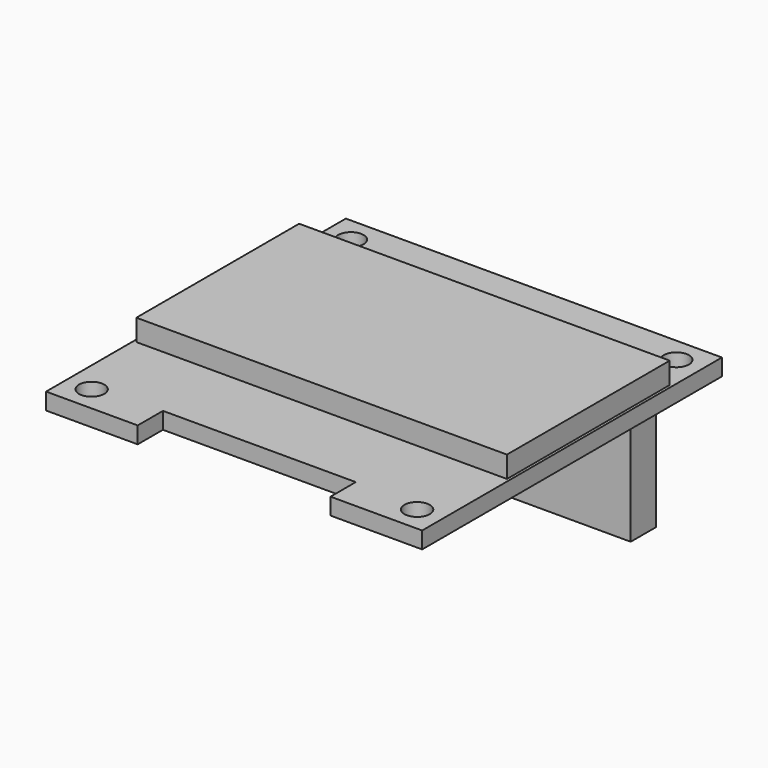
from build123d import *

# Parameters (mm, degrees)
F0_W     = 27.5
F0_H     = 27.4
F1_DEPTH = 1.22
F2_W     = 14.1
F2_H     = 2.3066
F3_DEPTH = 25.4
F4_W     = 27.1
F4_H     = 14.88
F5_DEPTH = 1.57
F7_D     = 1.85
F8_W     = 17.84
F8_H     = 2.3
F9_DEPTH = 11.28


with BuildPart() as f1:
    # F0 (on Top) → F1 (new body)
    with BuildSketch(Plane.XY):
        Rectangle(F0_W, F0_H)
    extrude(amount=F1_DEPTH)

    # F2 (on face) → F3 (cut)
    with BuildSketch(Plane.XY.offset(1.22)):
        with Locations((0, -12.5467)):
            Rectangle(F2_W, F2_H)
    extrude(amount=-F3_DEPTH, mode=Mode.SUBTRACT)

    # F4 (on face) → F5 (join)
    with BuildSketch(Plane.XY.offset(1.22)):
        with Locations((0, 1.74)):
            Rectangle(F4_W, F4_H)
    extrude(amount=F5_DEPTH)

    # F7 (through all)
    with Locations(Plane.XY.offset(1.22)):
        with Locations((-11.9, -11.85), (-11.9, 11.85), (11.9, 11.85), (11.9, -11.85)):
            Hole(F7_D / 2)

    # F8 (on face) → F9 (join)
    with BuildSketch(Plane(origin=(0, 0, 0), x_dir=(1, 0, 0), z_dir=(0, 0, -1))):
        with Locations((0, -12.55)):
            Rectangle(F8_W, F8_H)
    extrude(amount=F9_DEPTH)


solid = f1.part
